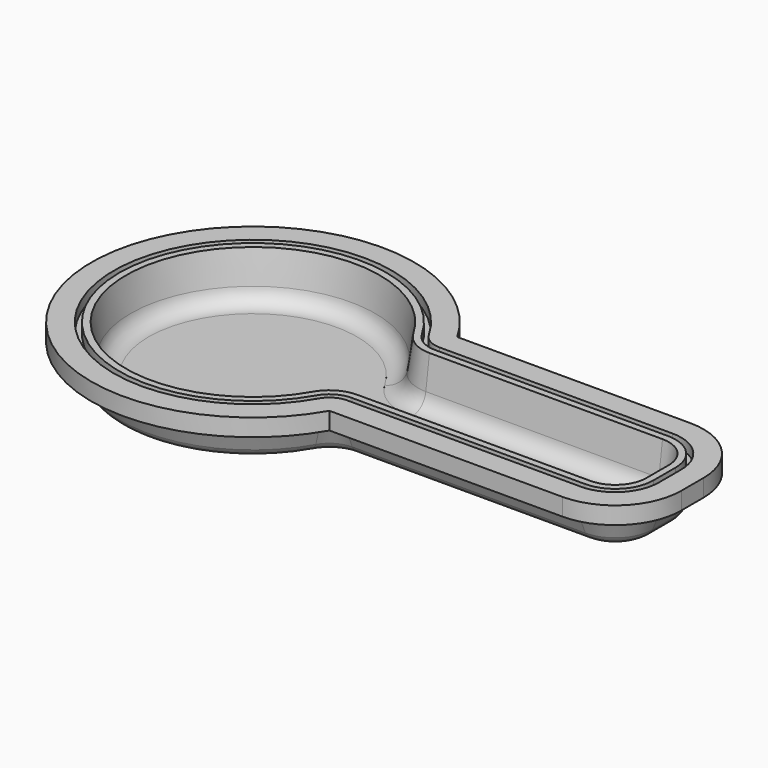
from build123d import *

# Parameters (mm, degrees)
F3_DEPTH = 1.5


with BuildPart() as f2:
    # F2: sweep along a path in F1
    with BuildLine(Plane.XY) as f2_path:
        ThreePointArc((107.5000001721, -6.5), (109.267767163, -5.7677669149), (110.0000001721, -3.9999998925))
        Line((110.0000001721, -3.9999998925), (109.9999998279, 4.0000001075))
        ThreePointArc((109.9999998279, 4.0000001075), (109.2677667429, 5.767766991), (107.4999998279, 6.5))
        Line((107.4999998279, 6.5), (40.4134878475, 6.5))
        ThreePointArc((40.4134878475, 6.5), (32.1192516055, 8.7362121033), (26.0732179661, 14.8387096774))
        ThreePointArc((26.0732179661, 14.8387096774), (-30, 0), (26.0732179661, -14.8387096774))
        ThreePointArc((26.0732179661, -14.8387096774), (32.1192516055, -8.7362121033), (40.4134878475, -6.5))
        Line((40.4134878475, -6.5), (107.5000001721, -6.5))
    # F0 (on Front) → F2 (sweep)
    with BuildSketch(Plane.XZ):
        with BuildLine():
            Line((-33.8218298437, -0.093526227), (-30, -0.0597173114))
            Line((-30, -0.0597173114), (-30, 1.4402826886))
            ThreePointArc((-30, 1.4402826886), (-33.4331031287, 2.5807074242), (-35.1984127671, 5.7383089745))
            Line((-35.1984127671, 5.7383089745), (-36.5, 14.9995833623))
            Line((-36.5, 14.9995833623), (-38.45, 14.9995833623))
            Line((-38.45, 14.9995833623), (-38.45, 11.9995833623))
            Line((-38.45, 11.9995833623), (-40.05, 11.9995833623))
            Line((-40.05, 11.9995833623), (-40.05, 15))
            Line((-40.05, 15), (-46.5, 15))
            Line((-46.5, 15), (-46.5, 10))
            Line((-46.5, 10), (-44.5, 10))
            Line((-44.5, 10), (-44.5, 12.5))
            Line((-44.5, 12.5), (-42.5, 12.5))
            Line((-42.5, 12.5), (-38.2571726182, 2.515018017))
            ThreePointArc((-38.2571726182, 2.515018017), (-36.400812876, 0.5964028574), (-33.8218298437, -0.093526227))
        make_face()
    sweep(path=f2_path.line)

    # F1 (on Top) → F3 (join)
    with BuildSketch(Plane.XY):
        with BuildLine():
            Line((40.4134878475, -6.5), (107.5000001721, -6.5))
            ThreePointArc((107.5000001721, -6.5), (109.267767163, -5.7677669149), (110.0000001721, -3.9999998925))
            Line((110.0000001721, -3.9999998925), (109.9999998279, 4.0000001075))
            ThreePointArc((109.9999998279, 4.0000001075), (109.2677667429, 5.767766991), (107.4999998279, 6.5))
            Line((107.4999998279, 6.5), (40.4134878475, 6.5))
            ThreePointArc((40.4134878475, 6.5), (32.1192516055, 8.7362121033), (26.0732179661, 14.8387096774))
            ThreePointArc((26.0732179661, 14.8387096774), (-30, 0), (26.0732179661, -14.8387096774))
            ThreePointArc((26.0732179661, -14.8387096774), (32.1192516055, -8.7362121033), (40.4134878475, -6.5))
        make_face()
    extrude(amount=F3_DEPTH)


solid = f2.part
